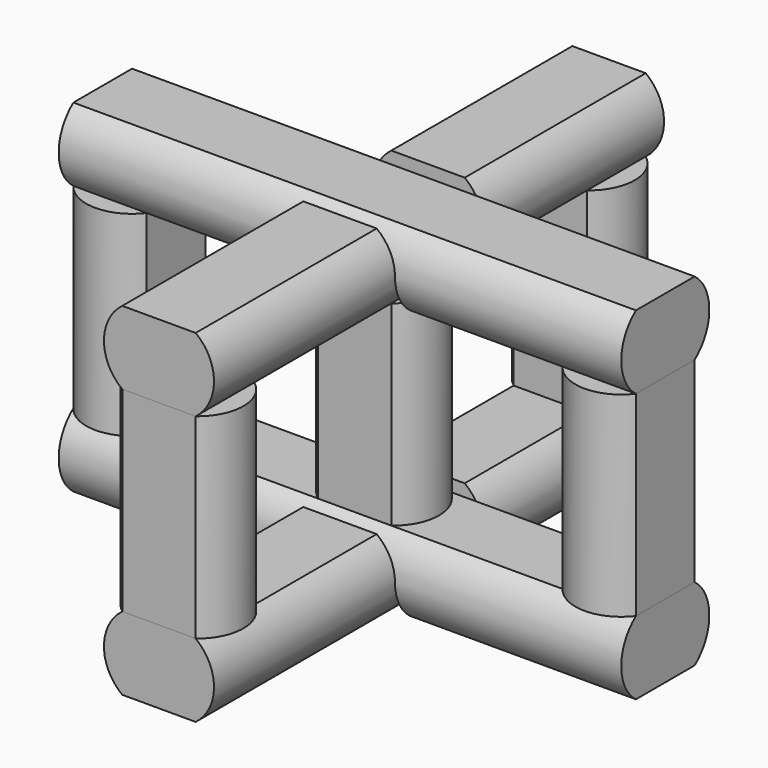
from build123d import *

# Parameters (mm, degrees)
F1_DEPTH      = 292.1
F1_DEPTH_BACK = 292.1
F2_ANGLE      = 90
F3_ANGLE      = 90
F4_W          = 114.3
F4_H          = 38.1
F5_DEPTH      = 63.5
F5_DEPTH_BACK = 63.5
F6_W          = 114.3
F6_H          = 38.1
F7_DEPTH      = 63.5
F7_DEPTH_BACK = 63.5
F10_DEPTH     = 762
F11_COUNT     = 4


with BuildPart() as f1:
    # F0 (on Front) → F1 (new body, two sides)
    with BuildSketch(Plane.XZ) as f1_sk:
        with BuildLine():
            ThreePointArc((-38.1, 76.2), (-57.15, 38.1), (-38.1, 0))
            Line((-38.1, 0), (38.1, 0))
            ThreePointArc((38.1, 0), (57.15, 38.1), (38.1, 76.2))
            Line((38.1, 76.2), (-38.1, 76.2))
        make_face()
    extrude(amount=F1_DEPTH)
    extrude(f1_sk.sketch, amount=-F1_DEPTH_BACK)


with BuildPart() as f2_1:
    # F2: copy of F1
    add(f1.part.rotate(Axis((0, -292.1, 76.2), (1, 0, 0)), F2_ANGLE))

    # F9 (on face) → F10 (cut)
    with BuildSketch(Plane(origin=(0, 0, 279.4), x_dir=(1, 0, 0), z_dir=(0, 0, -1))):
        with BuildLine():
            ThreePointArc((38.1, 215.9), (57.15, 254), (38.1, 292.1))
            Line((38.1, 292.1), (-38.1, 292.1))
            ThreePointArc((-38.1, 292.1), (-57.15, 254), (-38.1, 215.9))
            Line((-38.1, 215.9), (38.1, 215.9))
        make_face()
    extrude(amount=-F10_DEPTH, mode=Mode.SUBTRACT)


with BuildPart() as f3_1:
    # F3: copy of F1
    add(f1.part.rotate(Axis((0, 0, 38.1), (0, 0, 1)), F3_ANGLE))

    # F6 (on Front) → F7 (cut, two sides)
    with BuildSketch(Plane.XZ) as f7_sk:
        with Locations((0, 19.05)):
            Rectangle(F6_W, F6_H)
    extrude(amount=-F7_DEPTH, mode=Mode.SUBTRACT)
    extrude(f7_sk.sketch, amount=F7_DEPTH_BACK, mode=Mode.SUBTRACT)


with BuildPart() as f1_1:
    add(f1.part)

    # F4 (on Right) → F5 (cut, two sides)
    with BuildSketch(Plane.YZ) as f5_sk:
        with Locations((0, 57.15)):
            Rectangle(F4_W, F4_H)
    extrude(amount=-F5_DEPTH, mode=Mode.SUBTRACT)
    extrude(f5_sk.sketch, amount=F5_DEPTH_BACK, mode=Mode.SUBTRACT)


with BuildPart() as f8_1:
    # F8: copy of F1
    add(f1_1.part.moved(Location((0, 0, 279.4))))


with BuildPart() as f8_2:
    # F8: copy of F3_1
    add(f3_1.part.moved(Location((0, 0, 279.4))))


with BuildPart() as f11_1:
    # F11: instance of F2_1
    add(f2_1.part.rotate(Axis((0, 0, 38.1), (0, 0, 1)), 1 * 360 / F11_COUNT))


with BuildPart() as f11_2:
    # F11: instance of F2_1
    add(f2_1.part.rotate(Axis((0, 0, 38.1), (0, 0, 1)), 2 * 360 / F11_COUNT))


with BuildPart() as f11_3:
    # F11: instance of F2_1
    add(f2_1.part.rotate(Axis((0, 0, 38.1), (0, 0, 1)), 3 * 360 / F11_COUNT))


with BuildPart() as f12_1:
    # F12: copy of F2_1
    add(f2_1.part.moved(Location((0, 254, 0))))


solid = Compound([f2_1.part, f3_1.part, f1_1.part, f8_1.part, f8_2.part, f11_1.part, f11_2.part, f11_3.part, f12_1.part])
